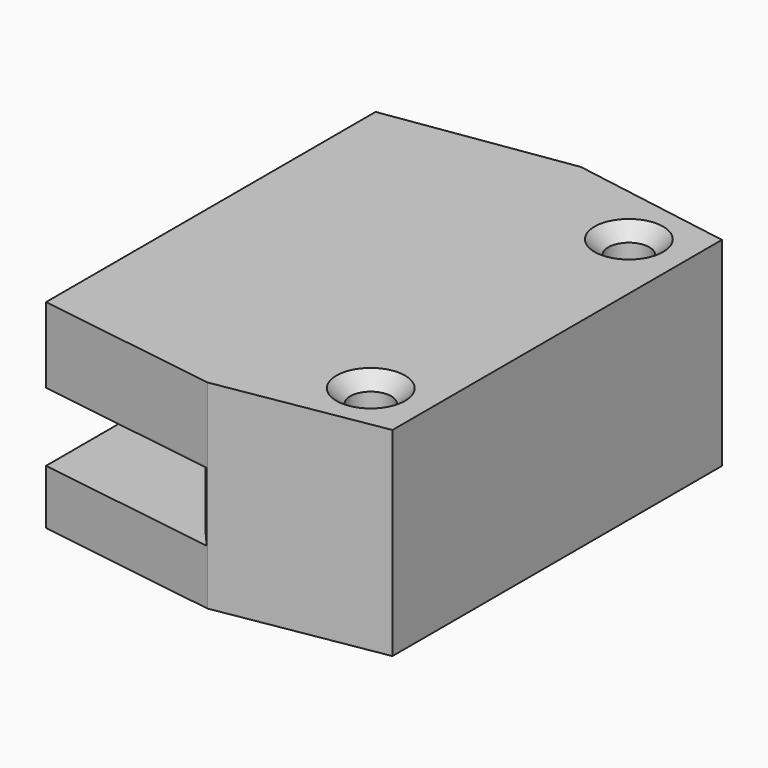
from build123d import *

# Parameters (mm, degrees)
PAD003_DEPTH    = 14.5
SKETCH021_R     = 1.5
POCKET002_DEPTH = 7.25
SKETCH023_W     = 34
SKETCH023_H     = 5
POCKET003_DEPTH = 12.3
CHAMFER006_SIZE = 1
CHAMFER007_SIZE = 1


with BuildPart() as part:
    # Sketch022 → Pad003 (new body)
    with BuildSketch(Plane(origin=(0, 0, 11.5), x_dir=(0, -1, 0), z_dir=(0, 0, 1))):
        Polygon((-15, -23.23103), (15, -23.23103), (17, -9.88), (15, 2), (-15, 2), (-17, -9.88), align=None)
    extrude(amount=PAD003_DEPTH)

    # Sketch021 (on Face8 of Pad003) → Pocket002 (cut)
    with BuildSketch(Plane(origin=(0, 0, 26), x_dir=(0, -1, 0), z_dir=(0, 0, 1))):
        with Locations((11.75, -2.18)):
            Circle(SKETCH021_R)
        with Locations((-11.75, -2.18)):
            Circle(SKETCH021_R)
    extrude(amount=-POCKET002_DEPTH, mode=Mode.SUBTRACT)

    # Sketch023 (on Face8 of Pocket002) → Pocket003 (cut)
    with BuildSketch(Plane(origin=(-23.23103, 0, 11.5), x_dir=(0, -1, 0), z_dir=(-1, 0, 0))):
        with Locations((0, 6.5)):
            Rectangle(SKETCH023_W, SKETCH023_H)
    extrude(amount=-POCKET003_DEPTH, mode=Mode.SUBTRACT)

    # Chamfer006
    chamfer006_edges = [part.edges().sort_by_distance(p)[0] for p in [
        (-10.93103, -16.842554, 18),
        (-10.93103, 16.842554, 18),
    ]]
    chamfer(chamfer006_edges, length=CHAMFER006_SIZE)

    # Chamfer007
    chamfer007_edges = [part.edges().sort_by_distance(p)[0] for p in [
        (-2.18, -10.25, 26),
        (-2.18, 13.25, 26),
    ]]
    chamfer(chamfer007_edges, length=CHAMFER007_SIZE)


solid = part.part
